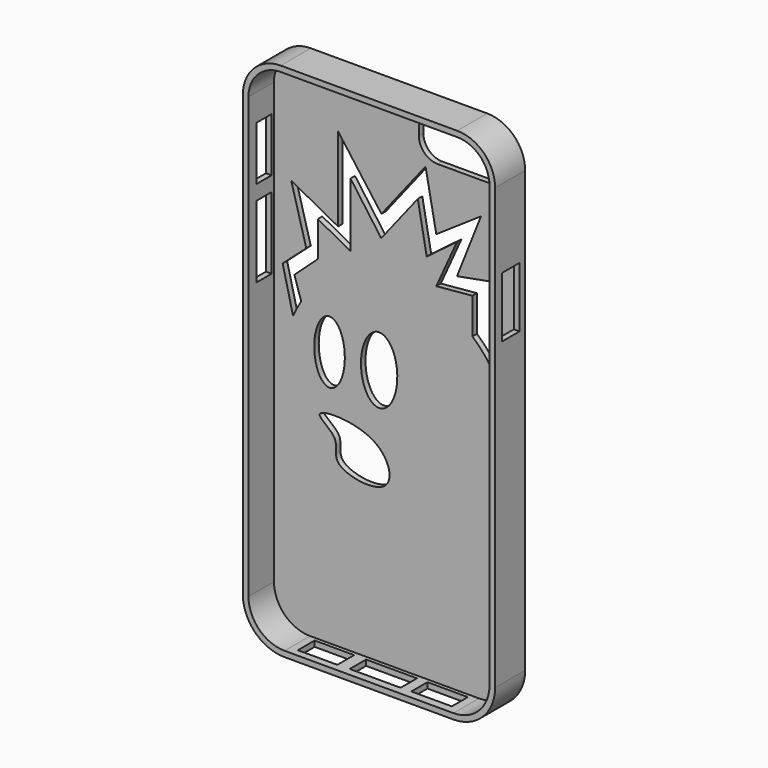
from build123d import *

# Parameters (mm, degrees)
F1_DEPTH  = 10
F2_T      = -2.5
F4_DEPTH  = 25
F5_DEPTH  = 10
F6_DEPTH  = 10
F7_T      = -1.5
F8_W      = 5.0696202088
F8_H      = 19.1518978681
F8_H_2    = 14.3639231101
F9_DEPTH  = 25
F10_W     = 10.5292941444
F10_H     = 5.5865490576
F10_W_2   = 13.5512258646
F10_H_2   = 5.4485995788
F10_W_3   = 10.7643418014
F10_H_3   = 5.3474996239
F11_DEPTH = 25
F12_W     = 5.9053241275
F12_H     = 16.0756031983
F13_DEPTH = 10
F15_DEPTH = 25
F17_DEPTH = 25


with BuildPart() as f1:
    # F0 (on Front) → F1 (new body)
    with BuildSketch(Plane.XZ):
        with BuildLine():
            Line((21.9544503482, 51.8828080004), (-25.0555496518, 51.8828080004))
            ThreePointArc((-25.0555496518, 51.8828080004), (-32.1973281418, 48.9245864904), (-35.1555496518, 41.7828080004))
            Line((-35.1555496518, 41.7828080004), (-35.1555496518, -75.4371919996))
            ThreePointArc((-35.1555496518, -75.4371919996), (-31.904434923, -83.2860772707), (-24.0555496518, -86.5371919996))
            Line((-24.0555496518, -86.5371919996), (20.9544503482, -86.5371919996))
            ThreePointArc((20.9544503482, -86.5371919996), (28.8033356193, -83.2860772707), (32.0544503482, -75.4371919996))
            Line((32.0544503482, -75.4371919996), (32.0544503482, 41.7828080004))
            ThreePointArc((32.0544503482, 41.7828080004), (29.0962288381, 48.9245864904), (21.9544503482, 51.8828080004))
        make_face()
    extrude(amount=F1_DEPTH)

    # F2
    f2_openings = [f1.faces().sort_by_distance(p)[0] for p in [
        (-1.55055, -10, -17.262302),
    ]]
    offset(amount=F2_T, openings=f2_openings)

    # F4 (cut): a face of the model
    f4_faces = [f1.faces().sort_by_distance(p)[0] for p in [
        (-1.5505496518, -2.5, -17.2732166404),
    ]]
    extrude(f4_faces, amount=-F4_DEPTH, mode=Mode.SUBTRACT)

    # F0 (on Front) → F5 (join)
    with BuildSketch(Plane.XZ):
        with BuildLine():
            Line((21.9544503482, 51.8828080004), (-25.0555496518, 51.8828080004))
            ThreePointArc((-25.0555496518, 51.8828080004), (-32.1973281418, 48.9245864904), (-35.1555496518, 41.7828080004))
            Line((-35.1555496518, 41.7828080004), (-35.1555496518, -75.4371919996))
            ThreePointArc((-35.1555496518, -75.4371919996), (-31.904434923, -83.2860772707), (-24.0555496518, -86.5371919996))
            Line((-24.0555496518, -86.5371919996), (20.9544503482, -86.5371919996))
            ThreePointArc((20.9544503482, -86.5371919996), (28.8033356193, -83.2860772707), (32.0544503482, -75.4371919996))
            Line((32.0544503482, -75.4371919996), (32.0544503482, 41.7828080004))
            ThreePointArc((32.0544503482, 41.7828080004), (29.0962288381, 48.9245864904), (21.9544503482, 51.8828080004))
        make_face()
    extrude(amount=F5_DEPTH)

    # F0 (on Front) → F6 (join)
    with BuildSketch(Plane.XZ):
        with BuildLine():
            Line((21.9544503482, 51.8828080004), (-25.0555496518, 51.8828080004))
            ThreePointArc((-25.0555496518, 51.8828080004), (-32.1973281418, 48.9245864904), (-35.1555496518, 41.7828080004))
            Line((-35.1555496518, 41.7828080004), (-35.1555496518, -75.4371919996))
            ThreePointArc((-35.1555496518, -75.4371919996), (-31.904434923, -83.2860772707), (-24.0555496518, -86.5371919996))
            Line((-24.0555496518, -86.5371919996), (20.9544503482, -86.5371919996))
            ThreePointArc((20.9544503482, -86.5371919996), (28.8033356193, -83.2860772707), (32.0544503482, -75.4371919996))
            Line((32.0544503482, -75.4371919996), (32.0544503482, 41.7828080004))
            ThreePointArc((32.0544503482, 41.7828080004), (29.0962288381, 48.9245864904), (21.9544503482, 51.8828080004))
        make_face()
    extrude(amount=F6_DEPTH)

    # F7
    f7_openings = [f1.faces().sort_by_distance(p)[0] for p in [
        (-1.55055, -10, -17.262302),
    ]]
    offset(amount=F7_T, openings=f7_openings)

    # F8 (on face) → F9 (cut)
    with BuildSketch(Plane(origin=(-35.1555496518, 0, 0), x_dir=(0, -1, 0), z_dir=(-1, 0, 0))):
        with Locations((4.8295374727, 6.7098989384)):
            Rectangle(F8_W, F8_H)
        with Locations((4.8295374727, 27.4108457379)):
            Rectangle(F8_W, F8_H_2)
    extrude(amount=-F9_DEPTH, mode=Mode.SUBTRACT)

    # F10 (on face) → F11 (cut)
    with BuildSketch(Plane(origin=(0, 0, -86.5371919996), x_dir=(1, 0, 0), z_dir=(0, 0, -1))):
        with Locations((-16.7780660558, 5.2797452663)):
            Rectangle(F10_W, F10_H)
        with Locations((-1.5505496518, 5.2107705269)):
            Rectangle(F10_W_2, F10_H_2)
        with Locations((13.3945420384, 5.1602205494)):
            Rectangle(F10_W_3, F10_H_3)
    extrude(amount=-F11_DEPTH, mode=Mode.SUBTRACT)

    # F12 (on face) → F13 (cut)
    with BuildSketch(Plane.YZ.offset(32.0544503482)):
        with Locations((-4.8359625507, 12.8464607988)):
            Rectangle(F12_W, F12_H)
    extrude(amount=-F13_DEPTH, mode=Mode.SUBTRACT)

    # F14 (on face) → F15 (cut)
    with BuildSketch(Plane(origin=(0, 0, 0), x_dir=(-1, 0, 0), z_dir=(0, 1, 0))):
        with BuildLine():
            Line((-4.9367016181, 41.7169417441), (-4.9367016181, 46.8872189522))
            Line((-4.9367016181, 46.8872189522), (-22.9018543661, 46.8872189522))
            ThreePointArc((-22.9018543661, 46.8872189522), (-26.437388272, 45.4227528581), (-27.9018543661, 41.8872189522))
            Line((-27.9018543661, 41.8872189522), (-27.9018543661, 36.7169417441))
            Line((-27.9018543661, 36.7169417441), (-9.9367016181, 36.7169417441))
            ThreePointArc((-9.9367016181, 36.7169417441), (-6.4011677122, 38.1814078382), (-4.9367016181, 41.7169417441))
        make_face()
    extrude(amount=-F15_DEPTH, mode=Mode.SUBTRACT)

    # F16 (on face) → F17 (cut)
    with BuildSketch(Plane(origin=(0, 0, 0), x_dir=(-1, 0, 0), z_dir=(0, 1, 0))):
        with BuildLine():
            ThreePointArc((26.4200529613, -7.3176028738), (27.5771721965, -9.3368857226), (28.5754660633, -11.4392266806))
            Line((28.5754660633, -11.4392266806), (31.3594639301, -0.0217765737))
            Line((31.3594639301, -0.0217765737), (25.0555496518, 5.558159668))
            Line((25.0555496518, 5.558159668), (29.0618427098, 20.1572801091))
            Line((29.0618427098, 20.1572801091), (16.5890399367, 13.4357167408))
            Line((16.5890399367, 13.4357167408), (16.5890399367, 35.7554629445))
            Line((16.5890399367, 35.7554629445), (5.0351630362, 20.1572801091))
            Line((5.0351630362, 20.1572801091), (-6.7154015414, 35.0989997387))
            Line((-6.7154015414, 35.0989997387), (-9.5820732453, 20.1572801091))
            Line((-9.5820732453, 20.1572801091), (-21.48581855, 28.2061360776))
            Line((-21.48581855, 28.2061360776), (-15.1034205345, 12.0860713894))
            Line((-15.1034205345, 12.0860713894), (-24.1708188182, 13.7639517974))
            Line((-24.1708188182, 13.7639517974), (-24.1708188182, -6.3168395026))
            ThreePointArc((-24.1708188182, -6.3168395026), (-21.870462247, -3.3559524745), (-19.2211569677, -0.7027140973))
            Line((-19.2211569677, -0.7027140973), (-19.2211569677, 8.8404889854))
            Line((-19.2211569677, 8.8404889854), (-9.5820732453, 7.9569982246))
            Line((-9.5820732453, 7.9569982246), (-15.1034205345, 20.1572801091))
            Line((-15.1034205345, 20.1572801091), (-7.0243359757, 14.0571391668))
            Line((-7.0243359757, 14.0571391668), (-4.6603031142, 26.8325595181))
            Line((-4.6603031142, 26.8325595181), (5.1009384915, 14.4204124808))
            Line((5.1009384915, 14.4204124808), (13.2710309699, 25.7874978435))
            Line((13.2710309699, 25.7874978435), (13.2710309699, 8.7444344535))
            Line((13.2710309699, 8.7444344535), (21.9839378688, 13.4397989926))
            Line((21.9839378688, 13.4397989926), (21.9839378688, 4.052773118))
            Line((21.9839378688, 4.052773118), (28.207506791, -1.6472467687))
            Line((28.207506791, -1.6472467687), (26.4200529613, -7.3176028738))
        make_face()
        with BuildLine():
            add(Edge.make_bspline(
                [(5.6451442651, -25.5737133837), (14.0268319161, -25.5737133837), (9.8359880906, -12.2517921706), (5.6451442651, 1.0701290425), (1.4543004397, -12.2517921706), (-2.7365433858, -25.5737133837), (5.6451442651, -25.5737133837)],
                knots=[0, 0, 0, 2.0943951024, 2.0943951024, 4.1887902048, 4.1887902048, 6.2831853072, 6.2831853072, 6.2831853072], degree=2, weights=[1, 0.5, 1, 0.5, 1, 0.5, 1]))
        make_face()
        with BuildLine():
            add(Edge.make_bspline(
                [(18.8640544657, -25.1127919182), (25.9189664889, -25.1127919182), (22.3915104773, -12.5799663365), (18.8640544657, -0.0471407548), (15.336598454, -12.5799663365), (11.8091424424, -25.1127919182), (18.8640544657, -25.1127919182)],
                knots=[0, 0, 0, 2.0943951024, 2.0943951024, 4.1887902048, 4.1887902048, 6.2831853072, 6.2831853072, 6.2831853072], degree=2, weights=[1, 0.5, 1, 0.5, 1, 0.5, 1]))
        make_face()
        with BuildLine():
            add(Edge.make_bspline(
                [(21.4888192713, -32.1785211563), (21.0886401041, -30.7026737238), (4.5085240404, -30.586525108), (0.1995471756, -46.7222859215), (19.5934373704, -43.5732098518), (15.3544410875, -36.0896016912), (21.741761386, -33.1113632456), (21.4888192713, -32.1785211563)],
                knots=[0, 0, 0, 0, 0.249472055, 0.4560450882, 0.6863086185, 0.8423156569, 1, 1, 1, 1], degree=3))
        make_face()
    extrude(amount=-F17_DEPTH, mode=Mode.SUBTRACT)


solid = f1.part
